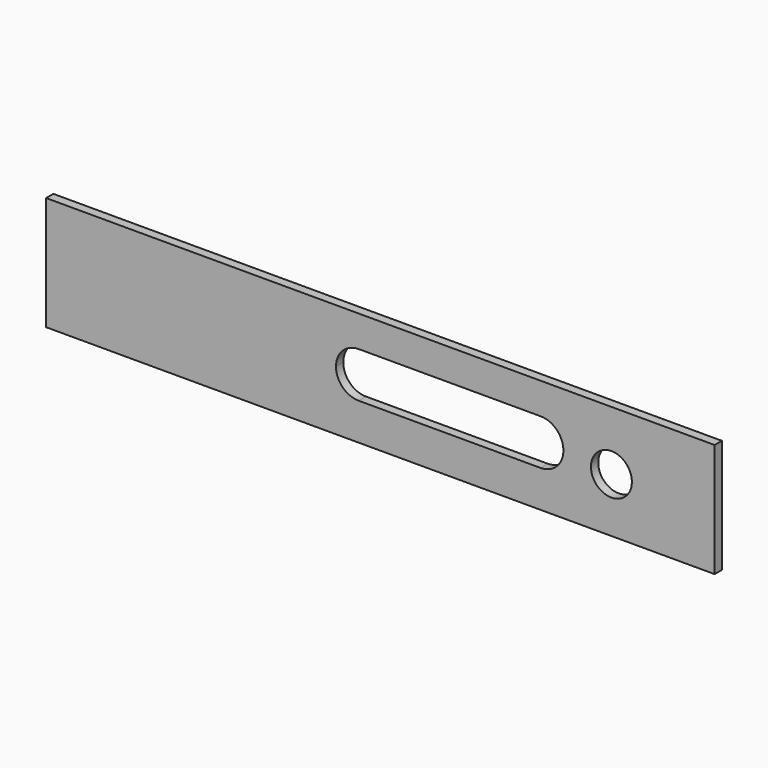
from build123d import *

# Parameters (mm, degrees)
F0_W     = 147
F0_H     = 25
F0_R     = 4.5
F1_DEPTH = 2


with BuildPart() as f1:
    # F0 (on Front) → F1 (new body)
    with BuildSketch(Plane.XZ):
        with Locations((-1.7181, -2.911929)):
            Rectangle(F0_W, F0_H)
        with Locations((49.084206, -3.467572)):
            Circle(F0_R, mode=Mode.SUBTRACT)
        with BuildLine():
            ThreePointArc((-11.476482, -2.292731), (-10.012016, 1.242803), (-6.476482, 2.707269))
            Line((-6.476482, 2.707269), (33.523518, 2.707269))
            ThreePointArc((33.523518, 2.707269), (37.059052, 1.242803), (38.523518, -2.292731))
            ThreePointArc((38.523518, -2.292731), (37.059052, -5.828265), (33.523518, -7.292731))
            Line((33.523518, -7.292731), (-6.476482, -7.292731))
            ThreePointArc((-6.476482, -7.292731), (-10.012016, -5.828265), (-11.476482, -2.292731))
        make_face(mode=Mode.SUBTRACT)
    extrude(amount=F1_DEPTH)


solid = f1.part
